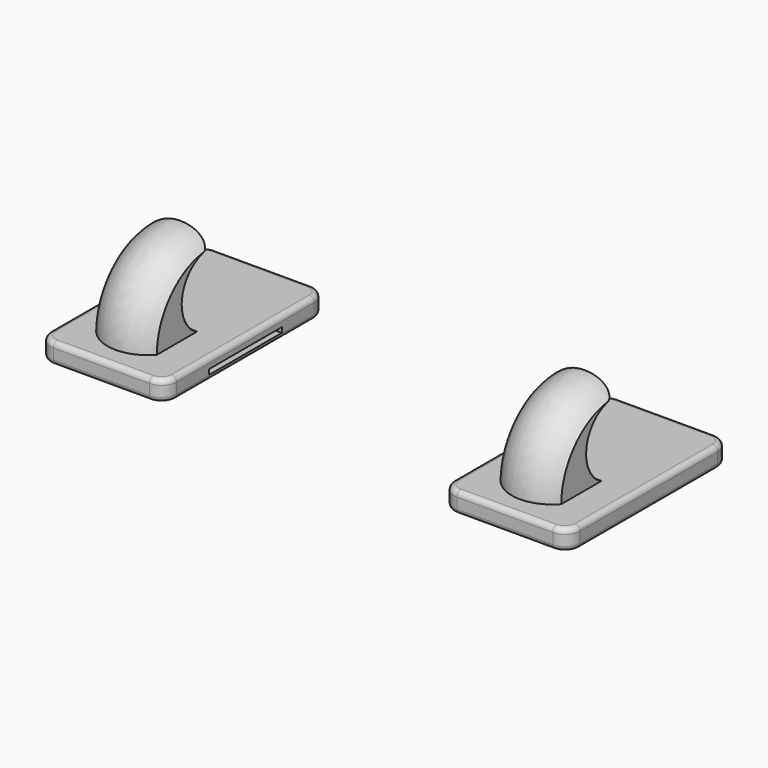
from build123d import *

# Parameters (mm, degrees)
SKETCH_W         = 25
SKETCH_H         = 40
PAD_DEPTH        = 4
SKETCH002_W      = 18
SKETCH002_H      = 1
POCKET_DEPTH     = 15
FILLET_R         = 3
FILLET002_R      = 1
FILLET004_R      = 0.9
BOX_W            = 10
BOX_H            = 22
BOX_DEPTH        = 28
BOX001_W         = 10
BOX001_H         = 21
BOX001_DEPTH     = 28
SKETCH005_R      = 8
REVOLUTION_ANGLE = -90
SKETCH006_R      = 7.054328
POCKET002_DEPTH  = 12.001
FILLET006_R      = 3
FILLET007_R      = 0.1
SKETCH001_W      = 25
SKETCH001_H      = 40
PAD001_DEPTH     = 4
SKETCH003_W      = 18
SKETCH003_H      = 1
POCKET001_DEPTH  = 15
FILLET001_R      = 3
FILLET003_R      = 1
FILLET005_R      = 0.9


with BuildPart() as fillet004:
    # Sketch → Pad (new body)
    with BuildSketch(Plane.XY):
        with Locations((-39.609703, 0)):
            Rectangle(SKETCH_W, SKETCH_H)
    extrude(amount=PAD_DEPTH)

    # Sketch002 → Pocket (cut)
    with BuildSketch(Plane.YZ.offset(-27.109703)):
        with Locations((0, 1.5)):
            Rectangle(SKETCH002_W, SKETCH002_H)
    extrude(amount=-POCKET_DEPTH, mode=Mode.SUBTRACT)

    # Fillet
    fillet_edges = [fillet004.edges().sort_by_distance(p)[0] for p in [
        (-27.109703, -20, 2),
        (-52.109703, -20, 2),
        (-27.109703, 20, 2),
        (-52.109703, 20, 2),
    ]]
    fillet(fillet_edges, radius=FILLET_R)

    # Fillet002
    fillet002_edges = [fillet004.edges().sort_by_distance(p)[0] for p in [
        (-27.109703, 0, 4),
        (-52.109703, 0, 4),
        (-39.609703, -20, 4),
        (-39.609703, 20, 4),
    ]]
    fillet(fillet002_edges, radius=FILLET002_R)

    # Fillet004
    fillet004_edges = [fillet004.edges().sort_by_distance(p)[0] for p in [
        (-27.109703, 0, 0),
        (-39.609703, 20, 0),
        (-52.109703, 0, 0),
        (-39.609703, -20, 0),
    ]]
    fillet(fillet004_edges, radius=FILLET004_R)


with BuildPart() as cubo:
    # Box → Box (new body)
    with BuildSketch(Plane(origin=(6, -16, 0), x_dir=(1, 0, 0), z_dir=(0, 0, 1))):
        with Locations((5, 11)):
            Rectangle(BOX_W, BOX_H)
    extrude(amount=BOX_DEPTH)


with BuildPart() as cubo001:
    # Box001 → Box001 (new body)
    with BuildSketch(Plane(origin=(-16, -17, 0), x_dir=(1, 0, 0), z_dir=(0, 0, 1))):
        with Locations((5, 10.5)):
            Rectangle(BOX001_W, BOX001_H)
    extrude(amount=BOX001_DEPTH)


with BuildPart() as fillet007:
    # Sketch005 → Revolution (revolve)
    with BuildSketch(Plane.XY.offset(4)):
        with Locations((0, -8)):
            Circle(SKETCH005_R)
    revolve(axis=Axis((0, 0, 4), (1, 0, 0)), revolution_arc=REVOLUTION_ANGLE)

    # Cut: cut Cubo001
    add(cubo001.part, mode=Mode.SUBTRACT)

    # Cut001: cut Cubo
    add(cubo.part, mode=Mode.SUBTRACT)


with BuildPart() as fillet007_1:
    # Cut001 placement: moved
    add(fillet007.part.moved(Location((-40, 0, 0))))

    # Sketch006 → Pocket002 (cut, through all)
    with BuildSketch(Plane.YZ.offset(-34)):
        with Locations((0, 10.218246)):
            Circle(SKETCH006_R)
    extrude(amount=-POCKET002_DEPTH, mode=Mode.SUBTRACT)

    # Fillet006
    fillet006_edges = [fillet007_1.edges().sort_by_distance(p)[0] for p in [
        (-40, 0, 17.272574),
    ]]
    fillet(fillet006_edges, radius=FILLET006_R)

    # Fillet007
    fillet007_edges = [fillet007_1.edges().sort_by_distance(p)[0] for p in [
        (-46, -7.022914, 10.883243),
        (-34, -7.022914, 10.883243),
    ]]
    fillet(fillet007_edges, radius=FILLET007_R)


with BuildPart() as tool_izquierdo:
    # Fusion base: copy of Fillet007
    add(fillet007_1.part)

    # Fusion: union Fillet004
    add(fillet004.part)


with BuildPart() as fillet005:
    # Sketch001 → Pad001 (new body)
    with BuildSketch(Plane.XY):
        with Locations((40.213776, 0)):
            Rectangle(SKETCH001_W, SKETCH001_H)
    extrude(amount=PAD001_DEPTH)

    # Sketch003 → Pocket001 (cut)
    with BuildSketch(Plane(origin=(27.713776, 0, 0), x_dir=(0, -1, 0), z_dir=(-1, 0, 0))):
        with Locations((0, 1.5)):
            Rectangle(SKETCH003_W, SKETCH003_H)
    extrude(amount=-POCKET001_DEPTH, mode=Mode.SUBTRACT)

    # Fillet001
    fillet001_edges = [fillet005.edges().sort_by_distance(p)[0] for p in [
        (27.713776, 20, 2),
        (52.713776, 20, 2),
        (27.713776, -20, 2),
        (52.713776, -20, 2),
    ]]
    fillet(fillet001_edges, radius=FILLET001_R)

    # Fillet003
    fillet003_edges = [fillet005.edges().sort_by_distance(p)[0] for p in [
        (27.713776, 0, 4),
        (40.213776, 20, 4),
        (52.713776, 0, 4),
        (40.213776, -20, 4),
    ]]
    fillet(fillet003_edges, radius=FILLET003_R)

    # Fillet005
    fillet005_edges = [fillet005.edges().sort_by_distance(p)[0] for p in [
        (27.713776, 0, 0),
        (40.213776, -20, 0),
        (52.713776, 0, 0),
        (40.213776, 20, 0),
    ]]
    fillet(fillet005_edges, radius=FILLET005_R)


with BuildPart() as tool_derecho:
    # Clone base: copy of Fillet007
    add(fillet007_1.part)


with BuildPart() as tool_derecho_1:
    # Clone placement: moved
    add(tool_derecho.part.moved(Location((80, 0, 0))))

    # Fusion001: union Fillet005
    add(fillet005.part)


solid = Compound([tool_izquierdo.part, tool_derecho_1.part])
